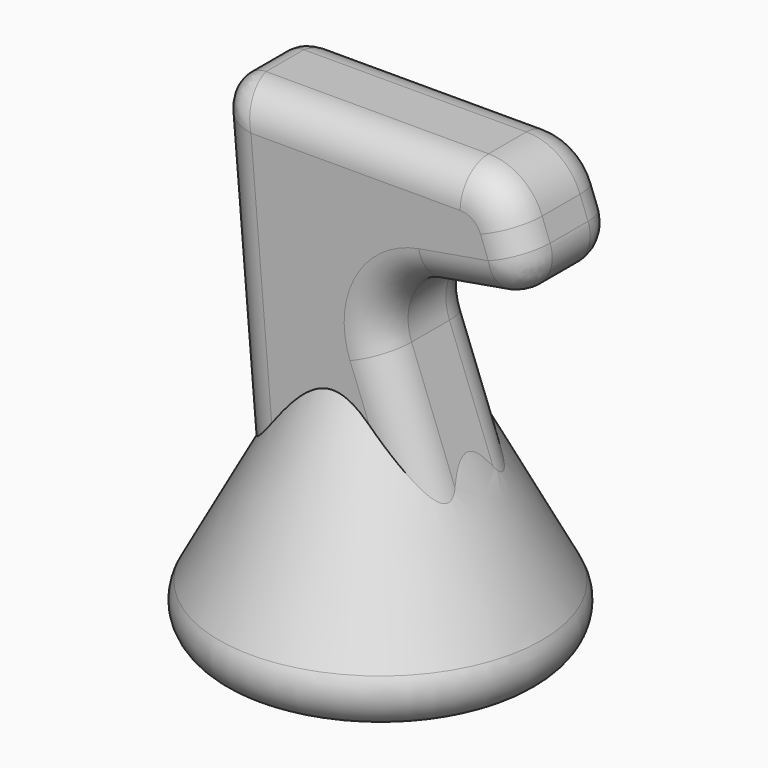
from build123d import *

# Parameters (mm, degrees)
PAD_DEPTH   = 5
FILLET_R    = 3
FILLET001_R = 3


with BuildPart() as fillet_body:
    # Sketch → Pad (new body, symmetric)
    with BuildSketch(Plane.XZ):
        with BuildLine():
            Line((-8.074896, 40.500361), (10.74188, 40.500361))
            ThreePointArc((15.279556, 37.342338), (13.506098, 39.633148), (10.74188, 40.500361))
            Line((15.279556, 37.342338), (15.948128, 35.53762))
            ThreePointArc((13.676512, 31.587292), (15.738151, 33.030062), (15.948128, 35.53762))
            Line((13.676512, 31.587292), (7.761121, 30.557998))
            ThreePointArc((7.761121, 30.557998), (4.537487, 28.291566), (4.234332, 24.362619))
            Line((4.234332, 24.362619), (13.501884, 0))
            Line((13.501884, 0), (-6.832076, 0))
            Line((-10.03093, 38.37449), (-6.832076, 0))
            ThreePointArc((-8.074896, 40.500361), (-9.519316, 39.866568), (-10.03093, 38.37449))
        make_face()
    extrude(amount=PAD_DEPTH, both=True)

    # Fillet
    fillet_edges = [fillet_body.edges().sort_by_distance(p)[0] for p in [
        (-9.519316, -5, 39.866568),
        (1.333492, -5, 40.500361),
        (13.506098, -5, 39.633148),
        (15.613842, -5, 36.439979),
        (15.738151, -5, 33.030062),
        (10.718817, -5, 31.072645),
        (4.537487, -5, 28.291566),
        (8.868108, -5, 12.181309),
        (3.334904, -5, 0),
        (-8.431503, -5, 19.187245),
        (-9.519316, 5, 39.866568),
        (1.333492, 5, 40.500361),
        (13.506098, 5, 39.633148),
        (15.613842, 5, 36.439979),
        (15.738151, 5, 33.030062),
        (10.718817, 5, 31.072645),
        (4.537487, 5, 28.291566),
        (8.868108, 5, 12.181309),
        (3.334904, 5, 0),
        (-8.431503, 5, 19.187245),
    ]]
    fillet(fillet_edges, radius=FILLET_R)


with BuildPart() as fillet001:
    # Sketch001 → Revolution (revolve)
    with BuildSketch(Plane.XZ):
        Polygon((0, 30), (16, 0), (0, 0), align=None)
    revolve(axis=Axis((0, 0, 0), (0, 0, 1)))

    # Fusion: union Fillet body
    add(fillet_body.part)

    # Fillet001
    fillet001_edges = [fillet001.edges().sort_by_distance(p)[0] for p in [
        (-16, 0, 0),
    ]]
    fillet(fillet001_edges, radius=FILLET001_R)


solid = fillet001.part
